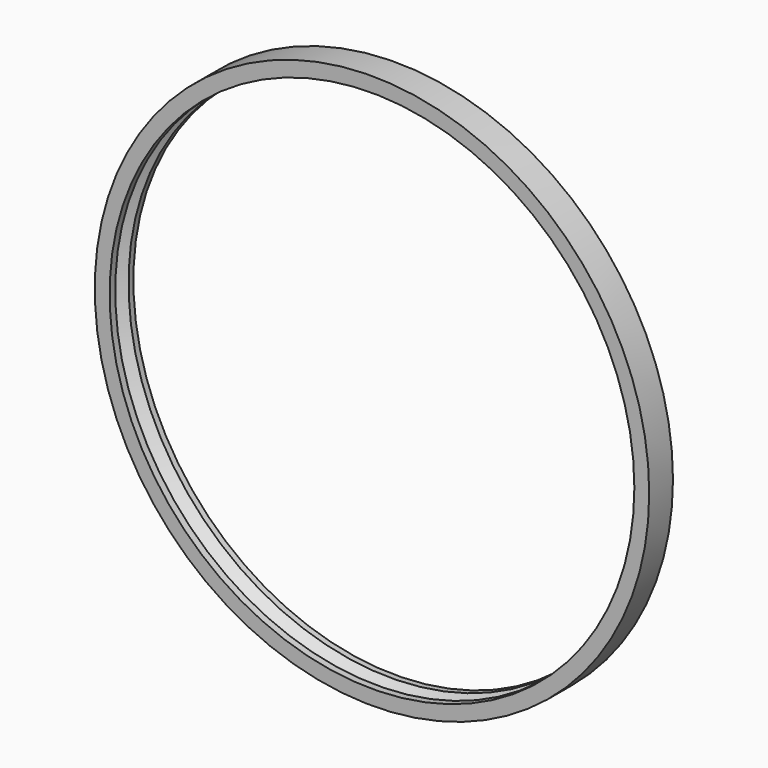
from build123d import *

# Parameters (mm, degrees)
F0_R     = 28
F0_R_2   = 27.158874
F0_R_3   = 26.5
F1_DEPTH = 1.5


with BuildPart() as f1:
    # F0 (on Front) → F1 (new body, symmetric)
    with BuildSketch(Plane.XZ):
        Circle(F0_R)
        Circle(F0_R_2, mode=Mode.SUBTRACT)
        Circle(F0_R_2)
        Circle(F0_R_3, mode=Mode.SUBTRACT)
    extrude(amount=F1_DEPTH, both=True)

    # F3: sweep along a path in F0
    with BuildLine(Plane.XZ) as f3_path:
        CenterArc((0, 0), 27.158874, 0, 360)
    # F2 (on Top) → F3 (sweep, cut)
    with BuildSketch(Plane.XY):
        Polygon((-26.486322, 0.898484), (-27.47646, 0), (-26.486322, -0.801019), align=None)
    sweep(path=f3_path.line, mode=Mode.SUBTRACT)


solid = f1.part
